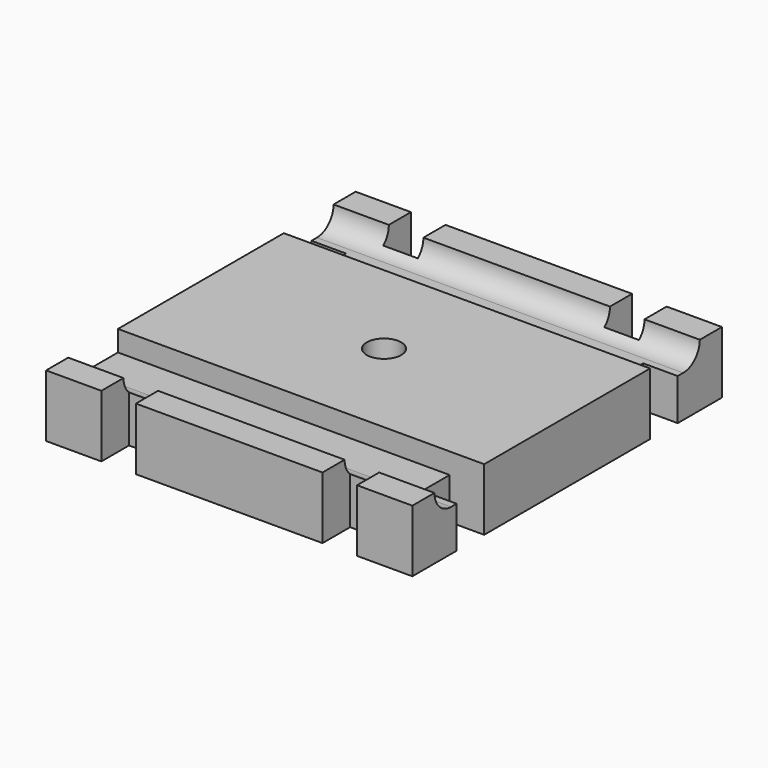
from build123d import *

# Parameters (mm, degrees)
SKETCH_R        = 2.5
PAD_DEPTH       = 9
POCKET_DEPTH    = 53.001
POCKET001_DEPTH = 2


with BuildPart() as part:
    # Sketch → Pad (new body)
    with BuildSketch(Plane.XY):
        Polygon((-26.5, 28), (-18.5, 28), (-18.5, 23), (-13.5, 23), (-13.5, 28), (13.5, 28), (13.5, 23), (18.5, 23), (18.5, 28), (26.5, 28), (26.5, 20), (21.5, 20), (21.5, 15), (26.5, 15), (26.5, -15), (21.5, -15), (21.5, -20), (26.5, -20), (26.5, -28), (18.5, -28), (18.5, -23), (13.5, -23), (13.5, -28), (-13.5, -28), (-13.5, -23), (-18.5, -23), (-18.5, -28), (-26.5, -28), (-26.5, 15), (-21.5, 15), (-21.5, 20), (-26.5, 20), align=None)
        Circle(SKETCH_R, mode=Mode.SUBTRACT)
    extrude(amount=PAD_DEPTH)

    # Sketch001 (on Face15 of Pad) → Pocket (cut, through all)
    with BuildSketch(Plane.YZ.offset(26.5)):
        with BuildLine():
            ThreePointArc((-24, 9), (-23.12132, 6.87868), (-21, 6))
            Line((-21, 6), (-15, 6))
            Line((-15, 6), (-15, 9))
            Line((-15, 9), (-24, 9))
        make_face()
        with BuildLine():
            ThreePointArc((21, 6), (23.12132, 6.87868), (24, 9))
            Line((15, 9), (24, 9))
            Line((15, 6), (15, 9))
            Line((21, 6), (15, 6))
        make_face()
    extrude(amount=-POCKET_DEPTH, mode=Mode.SUBTRACT)

    # Sketch002 (on Face2 of Pocket) → Pocket001 (cut)
    with BuildSketch(Plane(origin=(0, 0, 0), x_dir=(1, 0, 0), z_dir=(0, 0, -1))):
        Polygon((2.75, -4.76314), (5.5, 0), (2.75, 4.76314), (-2.75, 4.76314), (-5.5, 0), (-2.75, -4.76314), align=None)
    extrude(amount=-POCKET001_DEPTH, mode=Mode.SUBTRACT)


solid = part.part
